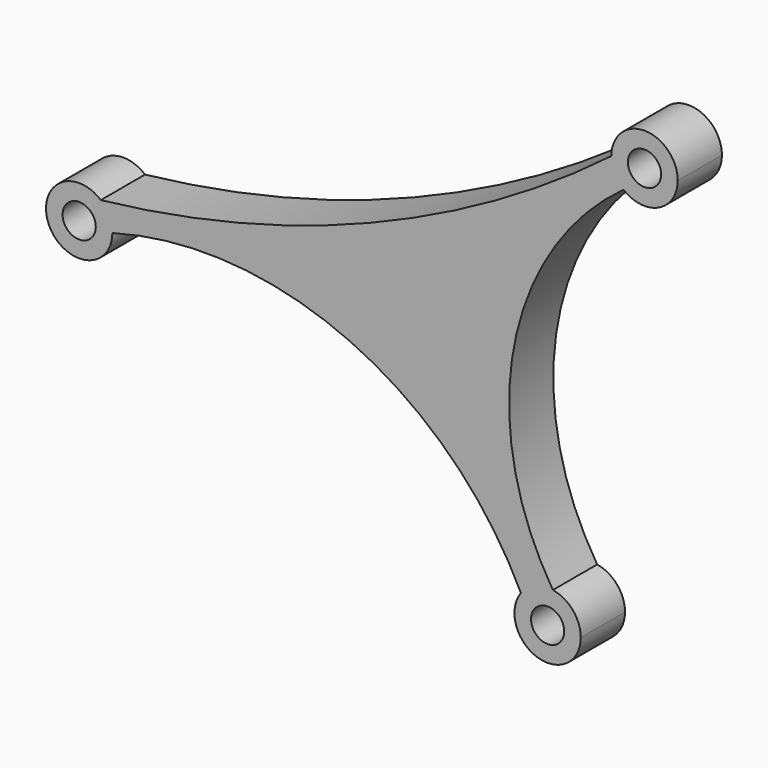
from build123d import *

# Parameters (mm, degrees)
F0_R     = 7.5
F1_DEPTH = 25


with BuildPart() as f1:
    # F0 (on Front) → F1 (new body)
    with BuildSketch(Plane.XZ):
        with BuildLine():
            ThreePointArc((-9.511187, -11.599023), (6.416081, -13.558536), (15, 0))
            ThreePointArc((15, 0), (0, 15), (-15, 0))
            ThreePointArc((-15, 0), (-13.558536, -6.416081), (-9.511187, -11.599023))
        make_face()
        Circle(F0_R, mode=Mode.SUBTRACT)
        with BuildLine():
            ThreePointArc((-9.511187, -11.599023), (-13.558536, -6.416081), (-15, 0))
            ThreePointArc((-15, 0), (-124.111916, -62.094191), (-245.884248, -92.632656))
            ThreePointArc((-245.884248, -92.632656), (-242.019707, -97.753195), (-240.647886, -104.019989))
            ThreePointArc((-240.647886, -104.019989), (-133.191596, -112.174328), (-55.899361, -187.26932))
            ThreePointArc((-55.899361, -187.26932), (-49.492549, -182.278121), (-41.423323, -181.357856))
            ThreePointArc((-41.423323, -181.357856), (-59.069676, -90.161684), (-9.511187, -11.599023))
        make_face()
        with BuildLine():
            ThreePointArc((-240.647886, -104.019989), (-242.019707, -97.753195), (-245.884248, -92.632656))
            ThreePointArc((-245.884248, -92.632656), (-269.276066, -110.286784), (-240.647886, -104.019989))
        make_face()
        with Locations((-255.647886, -104.019989)):
            Circle(F0_R, mode=Mode.SUBTRACT)
        with BuildLine():
            ThreePointArc((-28.821729, -196.16487), (-32.398592, -186.443144), (-41.423323, -181.357856))
            ThreePointArc((-41.423323, -181.357856), (-49.492549, -182.278121), (-55.899361, -187.26932))
            ThreePointArc((-55.899361, -187.26932), (-48.50337, -210.415562), (-28.821729, -196.16487))
        make_face()
        with Locations((-43.821729, -196.16487)):
            Circle(F0_R, mode=Mode.SUBTRACT)
    extrude(amount=F1_DEPTH)


solid = f1.part
